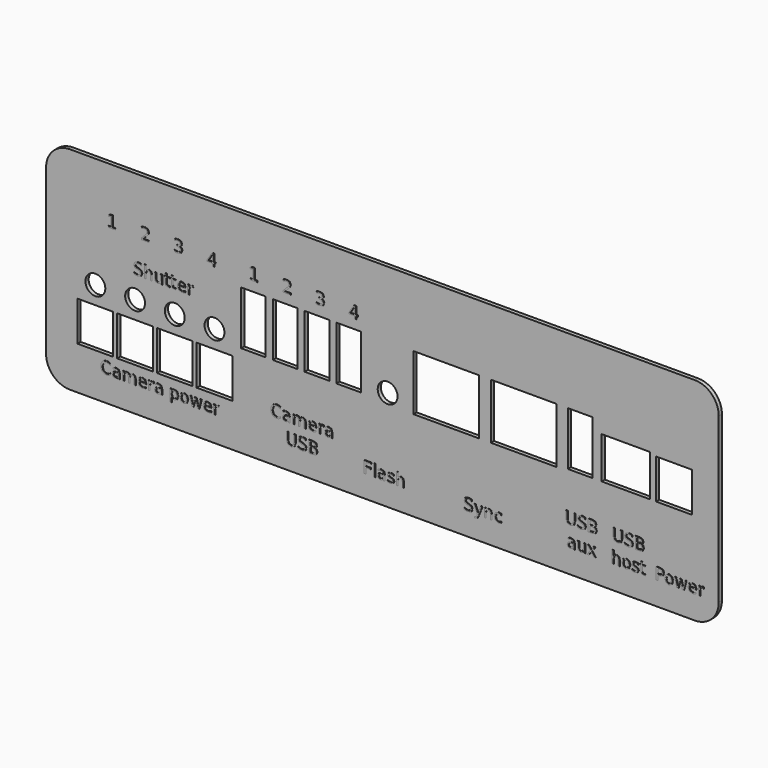
from build123d import *

# Parameters (mm, degrees)
F0_W     = 9
F0_H     = 10
F0_R     = 2.5
F0_W_2   = 6.2
F0_H_2   = 13.5
F0_W_3   = 16.5
F0_H_3   = 14
F0_W_4   = 12.2
F0_H_4   = 10.5
F1_DEPTH = 1
F2_W     = 0.366765
F2_H     = 3.102383
F3_DEPTH = 0.1


with BuildPart() as f1:
    # F0 (on Front) → F1 (new body)
    with BuildSketch(Plane.XZ):
        with BuildLine():
            ThreePointArc((-114.51425, -17.4525), (-112.756891, -21.695141), (-108.51425, -23.4525))
            Line((-108.51425, -23.4525), (48.88575, -23.4525))
            ThreePointArc((48.88575, -23.4525), (53.128391, -21.695141), (54.88575, -17.4525))
            Line((54.88575, -17.4525), (54.88575, 23.8475))
            ThreePointArc((54.88575, 23.8475), (53.128391, 28.090141), (48.88575, 29.8475))
            Line((48.88575, 29.8475), (-108.51425, 29.8475))
            ThreePointArc((-108.51425, 29.8475), (-112.756891, 28.090141), (-114.51425, 23.8475))
            Line((-114.51425, 23.8475), (-114.51425, -17.4525))
        make_face()
        with Locations((-102.1, -7.637372)):
            Rectangle(F0_W, F0_H, mode=Mode.SUBTRACT)
        with Locations((-92.1, -7.637372)):
            Rectangle(F0_W, F0_H, mode=Mode.SUBTRACT)
        with Locations((-82.1, -7.637372)):
            Rectangle(F0_W, F0_H, mode=Mode.SUBTRACT)
        with Locations((-102.1, 1.862628)):
            Circle(F0_R, mode=Mode.SUBTRACT)
        with Locations((-92.1, 1.862628)):
            Circle(F0_R, mode=Mode.SUBTRACT)
        with Locations((-82.1, 1.862628)):
            Circle(F0_R, mode=Mode.SUBTRACT)
        with Locations((-72.1, -7.637372)):
            Rectangle(F0_W, F0_H, mode=Mode.SUBTRACT)
        with Locations((-72.1, 1.862628)):
            Circle(F0_R, mode=Mode.SUBTRACT)
        with Locations((-28.5, 1.862628)):
            Circle(F0_R, mode=Mode.SUBTRACT)
        with Locations((-62.3, 6.5)):
            Rectangle(F0_W_2, F0_H_2, mode=Mode.SUBTRACT)
        with Locations((-54.3, 6.5)):
            Rectangle(F0_W_2, F0_H_2, mode=Mode.SUBTRACT)
        with Locations((-46.3, 6.5)):
            Rectangle(F0_W_2, F0_H_2, mode=Mode.SUBTRACT)
        with Locations((-38.3, 6.5)):
            Rectangle(F0_W_2, F0_H_2, mode=Mode.SUBTRACT)
        with Locations((-13.75, 6.25)):
            Rectangle(F0_W_3, F0_H_3, mode=Mode.SUBTRACT)
        with Locations((5.75, 6.25)):
            Rectangle(F0_W_3, F0_H_3, mode=Mode.SUBTRACT)
        with Locations((20, 6.5)):
            Rectangle(F0_W_2, F0_H_2, mode=Mode.SUBTRACT)
        with Locations((31.5, 5)):
            Rectangle(F0_W_4, F0_H_4, mode=Mode.SUBTRACT)
        with Locations((43.6, 4.75)):
            Rectangle(F0_W, F0_H, mode=Mode.SUBTRACT)
    extrude(amount=F1_DEPTH)


with BuildPart() as f3:
    # F2 (on face) → F3 (new body)
    with BuildSketch(Plane.XZ.offset(1)):
        Polygon((-62.330988, 16.072358), (-62.988813, 16.072358), (-62.988813, 15.733523), (-61.274303, 15.733523), (-61.274303, 16.072358), (-61.932373, 16.072358), (-61.932373, 18.711008), (-62.334908, 18.711008), (-63.047368, 18.567438), (-63.047368, 18.200673), (-62.330988, 18.343998), align=None)
        Polygon((-52.845813, 16.045898), (-54.250398, 16.045898), (-53.497268, 16.818138), (-53.180728, 17.152808), (-52.930828, 17.539908), (-52.861493, 17.888298), (-53.136873, 18.506188), (-53.874568, 18.737468), (-54.261423, 18.688223), (-54.716143, 18.540978), (-54.716143, 18.134033), (-54.266568, 18.333218), (-53.866728, 18.398633), (-53.433078, 18.249673), (-53.265743, 17.862818), (-53.343898, 17.564898), (-53.612418, 17.198133), (-54.110993, 16.682653), (-54.735743, 16.045898), (-54.735743, 15.706818), (-52.845813, 15.706818), align=None)
        Polygon((-44.603278, 17.083718), (-45.053833, 17.340478), (-44.651298, 17.575923), (-44.510178, 17.994383), (-44.777473, 18.556658), (-45.502918, 18.766868), (-45.882178, 18.734773), (-46.310193, 18.639223), (-46.310193, 18.280298), (-45.893938, 18.391773), (-45.539178, 18.428033), (-45.073923, 18.304063), (-44.910263, 17.953223), (-45.068533, 17.610223), (-45.523008, 17.492133), (-45.885853, 17.492133), (-45.885853, 17.161138), (-45.539178, 17.161138), (-45.025903, 17.011933), (-44.841173, 16.601313), (-45.040603, 16.166683), (-45.615863, 16.016498), (-46.033588, 16.067213), (-46.400353, 16.214703), (-46.400353, 15.825153), (-45.990958, 15.716128), (-45.604103, 15.677663), (-44.742928, 15.919478), (-44.439618, 16.601313), align=None)
        Polygon((-36.390143, 18.573808), (-36.896313, 18.573808), (-38.135278, 16.687798), (-38.135278, 16.298493), (-36.791453, 16.298493), (-36.791453, 15.596568), (-36.390143, 15.596568), (-36.390143, 16.298493), (-35.966048, 16.298493), (-35.966048, 16.633408), (-36.390143, 16.633408), align=None)
        Polygon((-37.808203, 16.633408), (-36.791453, 18.222968), (-36.791453, 16.633408), align=None, mode=Mode.SUBTRACT)
        Polygon((-98.262154, -14.758614), (-98.262154, -14.334592), (-98.706111, -14.123255), (-99.209882, -14.051495), (-99.814672, -14.155129), (-100.273249, -14.466181), (-100.565676, -14.954001), (-100.662708, -15.596016), (-100.565676, -16.236694), (-100.273249, -16.727174), (-99.814672, -17.03555), (-99.209882, -17.139227), (-98.7101, -17.067452), (-98.262154, -16.852116), (-98.262154, -16.432088), (-98.696808, -16.71521), (-99.185956, -16.808254), (-99.96753, -16.497222), (-100.237361, -15.596016), (-99.96753, -14.694815), (-99.185956, -14.382441), (-98.696808, -14.475467), align=None)
        Polygon((-95.905445, -17.082073), (-95.905445, -15.807358), (-96.144737, -15.045729), (-96.86783, -14.794506), (-97.237339, -14.834368), (-97.628114, -14.950008), (-97.628114, -15.288965), (-97.278547, -15.152059), (-96.906343, -15.105534), (-96.43979, -15.24511), (-96.272332, -15.635892), (-96.272332, -15.671777), (-96.786734, -15.671777), (-97.540404, -15.863184), (-97.791602, -16.432088), (-97.589575, -16.947821), (-97.043274, -17.139227), (-96.584683, -17.043523), (-96.272332, -16.743123), (-96.272332, -17.082073), align=None)
        Polygon((-97.253288, -16.061239), (-96.636549, -15.958888), (-96.272332, -15.958888), (-96.272332, -16.041299), (-96.457087, -16.616848), (-96.946229, -16.832181), (-97.297143, -16.719197), (-97.424739, -16.408164), align=None, mode=Mode.SUBTRACT)
        Polygon((-93.080889, -14.912792), (-93.409213, -15.277009), (-93.663083, -14.918108), (-94.075124, -14.794506), (-94.491182, -14.892874), (-94.792925, -15.195914), (-94.792925, -14.848994), (-95.161086, -14.848994), (-95.161086, -17.082073), (-94.792925, -17.082073), (-94.792925, -15.819324), (-94.626766, -15.304914), (-94.181478, -15.113521), (-93.829241, -15.269022), (-93.716248, -15.746213), (-93.716248, -17.082073), (-93.346739, -17.082073), (-93.346739, -15.819324), (-93.181902, -15.303592), (-92.731298, -15.113521), (-92.384403, -15.269022), (-92.271384, -15.746213), (-92.271384, -17.082073), (-91.901876, -17.082073), (-91.901876, -15.734252), (-92.091971, -15.040413), (-92.628962, -14.794506), align=None)
        Polygon((-89.258105, -16.053265), (-89.258105, -15.873819), (-89.52126, -15.085591), (-90.232421, -14.794506), (-91.032566, -15.11749), (-91.327669, -15.986803), (-91.016617, -16.828192), (-90.169946, -17.139227), (-89.74857, -17.095365), (-89.343169, -16.967759), (-89.343169, -16.620836), (-89.739236, -16.776353), (-90.147333, -16.828192), (-90.717545, -16.631469), (-90.944856, -16.053265), align=None)
        Polygon((-89.795096, -15.284971), (-89.624944, -15.766154), (-90.932876, -15.767482), (-90.721563, -15.279655), (-90.229726, -15.105534), align=None, mode=Mode.SUBTRACT)
        Polygon((-87.498221, -15.140103), (-87.362638, -15.191945), (-87.363961, -14.814449), (-87.466297, -14.801146), (-87.550038, -14.794506), (-88.000667, -14.894197), (-88.301061, -15.195914), (-88.301061, -14.848994), (-88.67057, -14.848994), (-88.67057, -17.082073), (-88.301061, -17.082073), (-88.301061, -15.905718), (-88.136225, -15.324857), (-87.656369, -15.121483), align=None)
        Polygon((-85.226581, -17.082073), (-85.226581, -15.807358), (-85.465824, -15.045729), (-86.190264, -14.794506), (-86.558475, -14.834368), (-86.94925, -14.950008), (-86.94925, -15.288965), (-86.601007, -15.152059), (-86.22748, -15.105534), (-85.760926, -15.24511), (-85.593444, -15.635892), (-85.593444, -15.671777), (-86.107871, -15.671777), (-86.861515, -15.863184), (-87.112738, -16.432088), (-86.912009, -16.947821), (-86.365733, -17.139227), (-85.907142, -17.043523), (-85.593444, -16.743123), (-85.593444, -17.082073), align=None)
        Polygon((-86.574424, -16.061239), (-85.959008, -15.958888), (-85.593444, -15.958888), (-85.593444, -16.041299), (-85.779546, -16.616848), (-86.267366, -16.832181), (-86.618279, -16.719197), (-86.745899, -16.408164), align=None, mode=Mode.SUBTRACT)
        Polygon((-82.814091, -17.931437), (-82.814091, -16.747109), (-82.522982, -17.043523), (-82.100283, -17.139227), (-81.440988, -16.816231), (-81.185796, -15.966863), (-81.440988, -15.11749), (-82.100283, -14.794506), (-82.522982, -14.892874), (-82.814091, -15.187952), (-82.814091, -14.848994), (-83.1836, -14.848994), (-83.1836, -17.931437), align=None)
        Polygon((-81.73342, -15.33282), (-81.565938, -15.966863), (-81.73342, -16.603557), (-82.190664, -16.832181), (-82.649254, -16.603557), (-82.814091, -15.966863), (-82.649254, -15.33282), (-82.190664, -15.10154), align=None, mode=Mode.SUBTRACT)
        Polygon((-78.959358, -15.105534), (-79.711705, -14.794506), (-80.465349, -15.105534), (-80.736515, -15.966863), (-80.465349, -16.828192), (-79.711705, -17.139227), (-78.959358, -16.828192), (-78.686894, -15.966863), align=None)
        Polygon((-80.178258, -15.336814), (-79.711705, -15.105534), (-79.247797, -15.339484), (-79.076346, -15.966863), (-79.247797, -16.596907), (-79.711705, -16.828192), (-80.179581, -16.59957), (-80.349734, -15.966863), align=None, mode=Mode.SUBTRACT)
        Polygon((-77.927908, -14.848994), (-78.293424, -14.848994), (-77.709908, -17.082073), (-77.276576, -17.082073), (-76.795421, -15.251749), (-76.31424, -17.082073), (-75.882183, -17.082073), (-75.297368, -14.848994), (-75.664378, -14.848994), (-76.120078, -16.591593), (-76.578767, -14.848994), (-77.012074, -14.848994), (-77.469318, -16.591593), align=None)
        Polygon((-72.828993, -16.053265), (-72.828993, -15.873819), (-73.092368, -15.085591), (-73.803358, -14.794506), (-74.603528, -15.11749), (-74.898753, -15.986803), (-74.587603, -16.828192), (-73.740883, -17.139227), (-73.319483, -17.095365), (-72.915478, -16.967759), (-72.915478, -16.620836), (-73.308948, -16.776353), (-73.718343, -16.828192), (-74.288458, -16.631469), (-74.515818, -16.053265), align=None)
        Polygon((-73.364808, -15.284971), (-73.196003, -15.766154), (-74.503813, -15.767482), (-74.292623, -15.279655), (-73.799438, -15.105534), align=None, mode=Mode.SUBTRACT)
        Polygon((-71.067933, -15.140103), (-70.933673, -15.191945), (-70.934898, -14.814449), (-71.037308, -14.801146), (-71.119628, -14.794506), (-71.571653, -14.894197), (-71.872023, -15.195914), (-71.872023, -14.848994), (-72.240258, -14.848994), (-72.240258, -17.082073), (-71.872023, -17.082073), (-71.872023, -15.905718), (-71.705913, -15.324857), (-71.227428, -15.121483), align=None)
        Polygon((-90.438417, 9.884883), (-90.438417, 10.278353), (-90.883705, 10.391298), (-91.310372, 10.430008), (-92.07732, 10.202648), (-92.355125, 9.580593), (-92.153099, 9.047473), (-91.50179, 8.766948), (-91.255909, 8.719173), (-90.815913, 8.533218), (-90.680354, 8.190218), (-90.867755, 7.803363), (-91.399429, 7.667878), (-91.861989, 7.738193), (-92.343194, 7.945708), (-92.343194, 7.530923), (-91.850058, 7.388823), (-91.399429, 7.340803), (-90.550063, 7.564243), (-90.258979, 8.220843), (-90.47431, 8.799043), (-91.138921, 9.102108), (-91.382181, 9.151108), (-91.832761, 9.313298), (-91.949724, 9.612443), (-91.772957, 9.975288), (-91.263871, 10.102933), (-90.871749, 10.048543), align=None)
        Polygon((-87.790653, 7.399358), (-87.790653, 8.747103), (-87.988686, 9.446333), (-88.57088, 9.685698), (-88.982945, 9.585983), (-89.292625, 9.285368), (-89.292625, 10.501793), (-89.660836, 10.501793), (-89.660836, 7.399358), (-89.292625, 7.399358), (-89.292625, 8.660618), (-89.121175, 9.177813), (-88.65195, 9.366463), (-88.281118, 9.209663), (-88.157492, 8.735098), (-88.157492, 7.399358), align=None)
        Polygon((-87.092795, 9.632288), (-87.092795, 8.280623), (-86.893438, 7.580168), (-86.309897, 7.340803), (-85.900502, 7.439293), (-85.58945, 7.742358), (-85.58945, 7.399358), (-85.222612, 7.399358), (-85.222612, 9.632288), (-85.58945, 9.632288), (-85.58945, 8.365638), (-85.763572, 7.849913), (-86.231449, 7.659793), (-86.602329, 7.818063), (-86.725957, 8.293853), (-86.725957, 9.632288), align=None)
        Polygon((-84.100733, 9.632288), (-84.100733, 10.266348), (-84.468967, 10.266348), (-84.468967, 9.632288), (-84.738762, 9.632288), (-84.738762, 9.346618), (-84.468967, 9.346618), (-84.468967, 8.134358), (-84.3081, 7.556158), (-83.721914, 7.399358), (-83.344442, 7.399358), (-83.344442, 7.706343), (-83.721914, 7.706343), (-84.026326, 7.783518), (-84.100733, 8.134358), (-84.100733, 9.346618), (-83.344442, 9.346618), (-83.344442, 9.632288), align=None)
        Polygon((-82.497722, 9.632288), (-82.497722, 10.266348), (-82.865908, 10.266348), (-82.865908, 9.632288), (-83.135751, 9.632288), (-83.135751, 9.346618), (-82.865908, 9.346618), (-82.865908, 8.134358), (-82.70509, 7.556158), (-82.118903, 7.399358), (-81.741383, 7.399358), (-81.741383, 7.706343), (-82.118903, 7.706343), (-82.423266, 7.783518), (-82.497722, 8.134358), (-82.497722, 9.346618), (-81.741383, 9.346618), (-81.741383, 9.632288), align=None)
        Polygon((-79.347512, 8.428113), (-79.347512, 8.607698), (-79.610666, 9.394393), (-80.321828, 9.685698), (-81.121974, 9.362543), (-81.417076, 8.493283), (-81.106024, 7.651953), (-80.25803, 7.340803), (-79.837977, 7.384658), (-79.432576, 7.512303), (-79.432576, 7.859223), (-79.82732, 7.703648), (-80.23674, 7.651953), (-80.806952, 7.849913), (-81.034263, 8.428113), align=None)
        Polygon((-79.88318, 9.195208), (-79.71435, 8.715253), (-81.022283, 8.712558), (-80.810971, 9.201823), (-80.31781, 9.374548), align=None, mode=Mode.SUBTRACT)
        Polygon((-77.586305, 9.341228), (-77.450722, 9.289533), (-77.453393, 9.665608), (-77.554381, 9.680308), (-77.638122, 9.685698), (-78.088751, 9.585983), (-78.390468, 9.285368), (-78.390468, 9.632288), (-78.758655, 9.632288), (-78.758655, 7.399358), (-78.390468, 7.399358), (-78.390468, 8.575603), (-78.224309, 9.155273), (-77.745775, 9.358623), align=None)
        Polygon((-55.424438, -10.446662), (-55.424438, -10.021318), (-55.869603, -9.809957), (-56.372098, -9.738196), (-56.976758, -9.84188), (-57.436868, -10.152883), (-57.729153, -10.64205), (-57.824703, -11.284048), (-57.729153, -11.9234), (-57.436868, -12.41389), (-56.976758, -12.723595), (-56.372098, -12.827279), (-55.873523, -12.755494), (-55.424438, -12.540138), (-55.424438, -12.118812), (-55.859068, -12.401934), (-56.348333, -12.496283), (-57.129638, -12.185281), (-57.400853, -11.284048), (-57.129638, -10.38284), (-56.348333, -10.069142), (-55.859068, -10.163541), align=None)
        Polygon((-53.067783, -12.768773), (-53.067783, -11.495385), (-53.306903, -10.733778), (-54.031368, -10.482555), (-54.399603, -10.522441), (-54.790133, -10.638057), (-54.790133, -10.977014), (-54.441988, -10.838761), (-54.068363, -10.793558), (-53.601883, -10.933159), (-53.434548, -11.323934), (-53.434548, -11.359826), (-53.949048, -11.359826), (-54.702668, -11.55122), (-54.953793, -12.118812), (-54.753138, -12.63586), (-54.207033, -12.827279), (-53.748148, -12.731557), (-53.434548, -12.429815), (-53.434548, -12.768773), align=None)
        Polygon((-54.415528, -11.747956), (-53.800088, -11.646917), (-53.434548, -11.646917), (-53.434548, -11.728012), (-53.620748, -12.304865), (-54.108298, -12.520244), (-54.459383, -12.405903), (-54.587028, -12.0949), align=None, mode=Mode.SUBTRACT)
        Polygon((-50.243178, -10.599518), (-50.571478, -10.965033), (-50.825298, -10.606182), (-51.237388, -10.482555), (-51.654868, -10.579575), (-51.954993, -10.88264), (-51.954993, -10.535696), (-52.324453, -10.535696), (-52.324453, -12.768773), (-51.954993, -12.768773), (-51.954993, -11.507365), (-51.790353, -10.992964), (-51.343473, -10.80157), (-50.992633, -10.957071), (-50.878463, -11.43291), (-50.878463, -12.768773), (-50.510228, -12.768773), (-50.510228, -11.507365), (-50.344118, -10.990318), (-49.893563, -10.80157), (-49.546643, -10.957071), (-49.433453, -11.43291), (-49.433453, -12.768773), (-49.063993, -12.768773), (-49.063993, -11.420978), (-49.254113, -10.727114), (-49.792623, -10.482555), align=None)
        Polygon((-46.420443, -11.739993), (-46.420443, -11.560506), (-46.683328, -10.773615), (-47.396033, -10.482555), (-48.194978, -10.805539), (-48.489958, -11.674848), (-48.179053, -12.516227), (-47.332088, -12.827279), (-46.910688, -12.783399), (-46.506928, -12.655803), (-46.506928, -12.308883), (-46.901623, -12.464409), (-47.309548, -12.516227), (-47.879908, -12.318193), (-48.107023, -11.739993), align=None)
        Polygon((-46.957238, -10.97302), (-46.787208, -11.452853), (-48.095263, -11.455499), (-47.883828, -10.966356), (-47.391868, -10.793558), align=None, mode=Mode.SUBTRACT)
        Polygon((-44.660363, -10.826804), (-44.524633, -10.878646), (-44.526103, -10.502498), (-44.628513, -10.487871), (-44.712303, -10.482555), (-45.162613, -10.582221), (-45.463228, -10.88264), (-45.463228, -10.535696), (-45.832688, -10.535696), (-45.832688, -12.768773), (-45.463228, -12.768773), (-45.463228, -11.592429), (-45.298588, -11.012906), (-44.820103, -10.809532), align=None)
        Polygon((-42.388723, -12.768773), (-42.388723, -11.495385), (-42.628088, -10.733778), (-43.352553, -10.482555), (-43.720543, -10.522441), (-44.111563, -10.638057), (-44.111563, -10.977014), (-43.763173, -10.838761), (-43.389548, -10.793558), (-42.923068, -10.933159), (-42.755488, -11.323934), (-42.755488, -11.359826), (-43.269988, -11.359826), (-44.023853, -11.55122), (-44.274978, -12.118812), (-44.074078, -12.63586), (-43.527973, -12.827279), (-43.069333, -12.731557), (-42.755488, -12.429815), (-42.755488, -12.768773), align=None)
        Polygon((-43.736713, -11.747956), (-43.121028, -11.646917), (-42.755488, -11.646917), (-42.755488, -11.728012), (-42.941688, -12.304865), (-43.429728, -12.520244), (-43.780568, -12.405903), (-43.908213, -12.0949), align=None, mode=Mode.SUBTRACT)
        Polygon((-53.466398, -14.896843), (-53.871873, -14.896843), (-53.871873, -16.755087), (-53.584488, -17.633693), (-52.731643, -17.931437), (-51.882228, -17.633693), (-51.592148, -16.755087), (-51.592148, -14.896843), (-51.997623, -14.896843), (-51.997623, -16.704575), (-52.170348, -17.394434), (-52.731643, -17.60445), (-53.293673, -17.394434), (-53.466398, -16.704575), align=None)
        Polygon((-49.050763, -15.387333), (-49.050763, -14.993887), (-49.494703, -14.880893), (-49.921493, -14.842355), (-50.689813, -15.069641), (-50.966173, -15.691718), (-50.765518, -16.22473), (-50.112838, -16.505194), (-49.868328, -16.553047), (-49.427083, -16.739135), (-49.291353, -17.082073), (-49.478778, -17.46887), (-50.011653, -17.60445), (-50.474458, -17.534003), (-50.954168, -17.326647), (-50.954168, -17.74136), (-50.462453, -17.883585), (-50.011653, -17.931437), (-49.162238, -17.70813), (-48.871423, -17.0515), (-49.086778, -16.473293), (-49.749993, -16.170235), (-49.993278, -16.121054), (-50.443833, -15.958888), (-50.562168, -15.659817), (-50.384053, -15.296952), (-49.876168, -15.169331), (-49.482943, -15.223844), align=None)
        Polygon((-47.213998, -14.896843), (-48.242508, -14.896843), (-48.242508, -17.872952), (-47.174063, -17.872952), (-46.403048, -17.65629), (-46.131833, -17.039539), (-46.296473, -16.535768), (-46.758053, -16.268595), (-46.382958, -16.066556), (-46.255313, -15.631904), (-46.503988, -15.088261), align=None)
        Polygon((-47.839973, -17.541978), (-47.839973, -16.452024), (-47.193908, -16.452024), (-46.713953, -16.584946), (-46.555928, -16.995674), (-46.713953, -17.409055), (-47.193908, -17.541978), align=None, mode=Mode.SUBTRACT)
        Polygon((-47.839973, -16.125042), (-47.839973, -15.227813), (-47.244623, -15.227813), (-46.805828, -15.339484), (-46.659563, -15.675766), (-46.805828, -16.014716), (-47.244623, -16.125042), align=None, mode=Mode.SUBTRACT)
        Polygon((-98.054806, 16.089753), (-98.712755, 16.089753), (-98.712755, 15.750673), (-96.998096, 15.750673), (-96.998096, 16.089753), (-97.656044, 16.089753), (-97.656044, 18.728158), (-98.058799, 18.728158), (-98.769914, 18.584833), (-98.769914, 18.217578), (-98.054806, 18.361148), align=None)
        Polygon((-88.569533, 16.063048), (-89.974509, 16.063048), (-89.220865, 16.835533), (-88.904521, 17.170203), (-88.654621, 17.557058), (-88.585507, 17.905203), (-88.860641, 18.523583), (-89.598361, 18.754863), (-89.985167, 18.705618), (-90.43974, 18.557883), (-90.43974, 18.151183), (-89.990483, 18.350613), (-89.590374, 18.415783), (-89.157067, 18.267068), (-88.989585, 17.879968), (-89.06801, 17.582293), (-89.336505, 17.215528), (-89.834957, 16.699558), (-90.459683, 16.063048), (-90.459683, 15.724213), (-88.569533, 15.724213), align=None)
        Polygon((-80.32712, 17.101113), (-80.777724, 17.357873), (-80.374968, 17.592828), (-80.234069, 18.013248), (-80.501242, 18.575278), (-81.227005, 18.783773), (-81.605824, 18.752168), (-82.033814, 18.656373), (-82.033814, 18.297693), (-81.61778, 18.409168), (-81.262897, 18.444938), (-80.797667, 18.321458), (-80.634154, 17.970618), (-80.79235, 17.627618), (-81.246923, 17.509283), (-81.609817, 17.509283), (-81.609817, 17.178533), (-81.262897, 17.178533), (-80.749819, 17.029328), (-80.565039, 16.618708), (-80.764421, 16.184078), (-81.339975, 16.033893), (-81.757357, 16.084363), (-82.124195, 16.231853), (-82.124195, 15.843773), (-81.714825, 15.733523), (-81.328019, 15.694813), (-80.466672, 15.936873), (-80.163631, 16.618708), align=None)
        Polygon((-72.113838, 18.591203), (-72.620253, 18.591203), (-73.859218, 16.705193), (-73.859218, 16.315888), (-72.515393, 16.315888), (-72.515393, 15.613718), (-72.113838, 15.613718), (-72.113838, 16.315888), (-71.689988, 16.315888), (-71.689988, 16.650558), (-72.113838, 16.650558), align=None)
        Polygon((-73.532143, 16.650558), (-72.515393, 18.240363), (-72.515393, 16.650558), align=None, mode=Mode.SUBTRACT)
        Polygon((16.876845, -9.475934), (16.472595, -9.475934), (16.472595, -11.334186), (16.759735, -12.21278), (17.61307, -12.510529), (18.462485, -12.21278), (18.751095, -11.334186), (18.751095, -9.475934), (18.346845, -9.475934), (18.346845, -11.283642), (18.17265, -11.973537), (17.61307, -12.183552), (17.05055, -11.973537), (16.876845, -11.283642), align=None)
        Polygon((21.29346, -9.9664), (21.29346, -9.572978), (20.84854, -9.460009), (20.42175, -9.421446), (19.654655, -9.648708), (19.376825, -10.270812), (19.57895, -10.803834), (20.23016, -11.084286), (20.47614, -11.132134), (20.91616, -11.318212), (21.051645, -11.661163), (20.86422, -12.047944), (20.33257, -12.183552), (19.870255, -12.113065), (19.389075, -11.905746), (19.389075, -12.320433), (19.882015, -12.46268), (20.33257, -12.510529), (21.181985, -12.287186), (21.47329, -11.630586), (21.257935, -11.052362), (20.59325, -10.749321), (20.349965, -10.70015), (19.89941, -10.53796), (19.7823, -10.238888), (19.958945, -9.876019), (20.468055, -9.748423), (20.8603, -9.802936), align=None)
        Polygon((23.129245, -9.475934), (22.100245, -9.475934), (22.100245, -12.452023), (23.16918, -12.452023), (23.941175, -12.235369), (24.21239, -11.618631), (24.046525, -11.114837), (23.586415, -10.847689), (23.961265, -10.645637), (24.08891, -10.210983), (23.839255, -9.667328), align=None)
        Polygon((22.50327, -12.121077), (22.50327, -11.031096), (23.14909, -11.031096), (23.63027, -11.164033), (23.78707, -11.574751), (23.63027, -11.988115), (23.14909, -12.121077), align=None, mode=Mode.SUBTRACT)
        Polygon((22.50327, -10.704119), (22.50327, -9.806904), (23.10009, -9.806904), (23.53864, -9.918551), (23.68368, -10.254863), (23.53864, -10.593795), (23.10009, -10.704119), align=None, mode=Mode.SUBTRACT)
        Polygon((18.682985, -17.556202), (18.682985, -16.28282), (18.44362, -15.521182), (17.720625, -15.269959), (17.351165, -15.309835), (16.96039, -15.42548), (16.96039, -15.764427), (17.310005, -15.626189), (17.68216, -15.580996), (18.14864, -15.72056), (18.31622, -16.11135), (18.31622, -16.14724), (17.80172, -16.14724), (17.048345, -16.338646), (16.79673, -16.906218), (16.998855, -17.423281), (17.54545, -17.614687), (18.003845, -17.518984), (18.31622, -17.217253), (18.31622, -17.556202), align=None)
        Polygon((17.334995, -16.535366), (17.951905, -16.434348), (18.31622, -16.434348), (18.31622, -16.515431), (18.131245, -17.092305), (17.64247, -17.307638), (17.29114, -17.193329), (17.163495, -16.882294), align=None, mode=Mode.SUBTRACT)
        Polygon((19.403285, -15.323126), (19.403285, -16.674936), (19.602715, -17.375429), (20.186305, -17.614687), (20.5957, -17.516325), (20.906605, -17.213264), (20.906605, -17.556202), (21.27386, -17.556202), (21.27386, -15.323126), (20.906605, -15.323126), (20.906605, -16.589867), (20.732655, -17.105602), (20.26495, -17.295677), (19.89402, -17.137503), (19.77054, -16.661644), (19.77054, -15.323126), align=None)
        Polygon((23.08147, -16.410424), (23.88948, -15.323126), (23.45632, -15.323126), (22.864645, -16.119327), (22.271745, -15.323126), (21.840055, -15.323126), (22.63361, -16.387825), (21.765575, -17.556202), (22.198735, -17.556202), (22.84872, -16.678924), (23.49895, -17.556202), (23.93064, -17.556202), align=None)
        Polygon((28.73852, -9.475934), (28.33329, -9.475934), (28.33329, -11.334186), (28.620185, -12.21278), (29.47352, -12.510529), (30.322935, -12.21278), (30.61277, -11.334186), (30.61277, -9.475934), (30.20705, -9.475934), (30.20705, -11.283642), (30.03457, -11.973537), (29.47352, -12.183552), (28.911245, -11.973537), (28.73852, -11.283642), align=None)
        Polygon((33.154155, -9.9664), (33.154155, -9.572978), (32.710215, -9.460009), (32.283425, -9.421446), (31.515105, -9.648708), (31.238745, -10.270812), (31.439645, -10.803834), (32.092325, -11.084286), (32.33659, -11.132134), (32.777835, -11.318212), (32.91381, -11.661163), (32.72614, -12.047944), (32.19302, -12.183552), (31.73046, -12.113065), (31.25075, -11.905746), (31.25075, -12.320433), (31.742465, -12.46268), (32.19302, -12.510529), (33.04268, -12.287186), (33.333495, -11.630586), (33.11814, -11.052362), (32.454925, -10.749321), (32.21164, -10.70015), (31.761085, -10.53796), (31.64275, -10.238888), (31.82111, -9.876019), (32.32875, -9.748423), (32.72222, -9.802936), align=None)
        Polygon((34.991165, -9.475934), (33.96241, -9.475934), (33.96241, -12.452023), (35.030855, -12.452023), (35.80187, -12.235369), (36.073085, -11.618631), (35.9082, -11.114837), (35.44711, -10.847689), (35.821715, -10.645637), (35.94936, -10.210983), (35.70093, -9.667328), align=None)
        Polygon((34.364945, -12.121077), (34.364945, -11.031096), (35.011255, -11.031096), (35.490965, -11.164033), (35.649235, -11.574751), (35.490965, -11.988115), (35.011255, -12.121077), align=None, mode=Mode.SUBTRACT)
        Polygon((34.364945, -10.704119), (34.364945, -9.806904), (34.96054, -9.806904), (35.39909, -9.918551), (35.545355, -10.254863), (35.39909, -10.593795), (34.96054, -10.704119), align=None, mode=Mode.SUBTRACT)
        Polygon((30.000025, -17.556202), (30.000025, -16.208385), (29.80329, -15.509218), (29.220925, -15.269959), (28.80761, -15.369649), (28.4994, -15.670053), (28.4994, -14.453819), (28.129695, -14.453819), (28.129695, -17.556202), (28.4994, -17.556202), (28.4994, -16.294779), (28.670655, -15.777719), (29.138605, -15.588968), (29.509535, -15.745817), (29.633015, -16.220345), (29.633015, -17.556202), align=None)
        Polygon((32.352515, -15.580996), (31.60159, -15.269959), (30.84797, -15.580996), (30.576755, -16.442325), (30.84797, -17.303652), (31.60159, -17.614687), (32.352515, -17.303652), (32.626425, -16.442325), align=None)
        Polygon((31.13511, -15.812276), (31.60159, -15.580996), (32.065375, -15.813606), (32.236875, -16.442325), (32.065375, -17.07237), (31.60159, -17.303652), (31.132415, -17.0737), (30.96361, -16.442325), align=None, mode=Mode.SUBTRACT)
        Polygon((34.65625, -15.736515), (34.65625, -15.38959), (34.325255, -15.299202), (33.94232, -15.269959), (33.308505, -15.441429), (33.08531, -15.927921), (33.23672, -16.335988), (33.728435, -16.555307), (33.855835, -16.585878), (34.297325, -16.738736), (34.398265, -16.968691), (34.25886, -17.219911), (33.86, -17.307638), (33.46898, -17.255799), (33.06914, -17.096294), (33.06914, -17.47512), (33.47731, -17.578798), (33.851915, -17.614687), (34.528605, -17.432585), (34.77581, -16.940778), (34.6097, -16.515431), (34.055265, -16.278832), (33.93056, -16.250919), (33.53709, -16.11268), (33.439825, -15.911966), (33.575555, -15.660748), (33.986175, -15.577007), (34.333095, -15.616886), align=None)
        Polygon((35.724695, -15.323126), (35.724695, -14.689093), (35.355235, -14.689093), (35.355235, -15.323126), (35.086715, -15.323126), (35.086715, -15.608909), (35.355235, -15.608909), (35.355235, -16.821149), (35.517425, -17.399355), (36.10371, -17.556202), (36.479785, -17.556202), (36.479785, -17.249154), (36.10371, -17.249154), (35.79795, -17.17206), (35.724695, -16.821149), (35.724695, -15.608909), (36.479785, -15.608909), (36.479785, -15.323126), align=None)
        Polygon((40.135185, -14.580093), (39.225745, -14.580093), (39.225745, -17.556202), (39.62877, -17.556202), (39.62877, -16.359912), (40.135185, -16.359912), (40.8915, -16.135274), (41.148015, -15.469342), (40.8915, -14.807403), align=None)
        Polygon((39.62877, -16.028939), (39.62877, -14.911063), (40.135185, -14.911063), (40.57006, -15.055956), (40.724165, -15.469342), (40.57006, -15.884054), (40.135185, -16.028939), align=None, mode=Mode.SUBTRACT)
        Polygon((43.148685, -15.580996), (42.39629, -15.269959), (41.642425, -15.580996), (41.37121, -16.442325), (41.642425, -17.303652), (42.39629, -17.614687), (43.148685, -17.303652), (43.421125, -16.442325), align=None)
        Polygon((41.92981, -15.812276), (42.39629, -15.580996), (42.8613, -15.813606), (43.0328, -16.442325), (42.8613, -17.07237), (42.39629, -17.303652), (41.92834, -17.0737), (41.75831, -16.442325), align=None, mode=Mode.SUBTRACT)
        Polygon((44.18136, -15.323126), (43.814595, -15.323126), (44.398185, -17.556202), (44.831345, -17.556202), (45.31375, -15.725879), (45.79346, -17.556202), (46.22711, -17.556202), (46.81021, -15.323126), (46.443445, -15.323126), (45.9875, -17.065723), (45.529105, -15.323126), (45.0957, -15.323126), (44.64, -17.065723), align=None)
        Polygon((49.278585, -16.527394), (49.278585, -16.347949), (49.0157, -15.561055), (48.304465, -15.269959), (47.50454, -15.592957), (47.20907, -16.462261), (47.52022, -17.303652), (48.36841, -17.614687), (48.78834, -17.570823), (49.19357, -17.443219), (49.19357, -17.096294), (48.798875, -17.251813), (48.38948, -17.303652), (47.81912, -17.105602), (47.592005, -16.527394), align=None)
        Polygon((48.743015, -15.760439), (48.91182, -16.240284), (47.603765, -16.242942), (47.815445, -15.753792), (48.30863, -15.580996), align=None, mode=Mode.SUBTRACT)
        Polygon((51.03989, -15.614225), (51.17562, -15.666065), (51.172925, -15.289899), (51.071985, -15.275278), (50.988195, -15.269959), (50.53764, -15.369649), (50.2358, -15.670053), (50.2358, -15.323126), (49.86781, -15.323126), (49.86781, -17.556202), (50.2358, -17.556202), (50.2358, -16.37985), (50.40191, -15.800315), (50.880395, -15.596945), align=None)
        Polygon((-32.609793, -14.896843), (-34.320383, -14.896843), (-34.320383, -17.872952), (-33.917848, -17.872952), (-33.917848, -16.452024), (-32.737438, -16.452024), (-32.737438, -16.113076), (-33.917848, -16.113076), (-33.917848, -15.2358), (-32.609793, -15.2358), align=None)
        with Locations((-31.800435, -16.32176)):
            Rectangle(F2_W, F2_H)
        Polygon((-29.104578, -17.872952), (-29.104578, -16.59957), (-29.343943, -15.837932), (-30.068408, -15.586709), (-30.436643, -15.626585), (-30.827418, -15.74223), (-30.827418, -16.081177), (-30.479028, -15.942939), (-30.105403, -15.897746), (-29.638923, -16.03731), (-29.471588, -16.4281), (-29.471588, -16.46399), (-29.986088, -16.46399), (-30.739708, -16.655396), (-30.990833, -17.222968), (-30.790178, -17.740031), (-30.243828, -17.931437), (-29.785188, -17.835734), (-29.471588, -17.534003), (-29.471588, -17.872952), align=None)
        Polygon((-30.452568, -16.852116), (-29.836883, -16.751098), (-29.471588, -16.751098), (-29.471588, -16.832181), (-29.657543, -17.409055), (-30.145583, -17.624388), (-30.496423, -17.510079), (-30.624068, -17.199044), align=None, mode=Mode.SUBTRACT)
        Polygon((-26.923588, -16.053265), (-26.923588, -15.70634), (-27.254583, -15.615952), (-27.637518, -15.586709), (-28.271333, -15.758179), (-28.494528, -16.244671), (-28.343118, -16.652738), (-27.851158, -16.872057), (-27.723513, -16.902628), (-27.282513, -17.055486), (-27.181328, -17.285441), (-27.320978, -17.536661), (-27.719838, -17.624388), (-28.110368, -17.572549), (-28.510453, -17.413044), (-28.510453, -17.79187), (-28.102528, -17.895548), (-27.727678, -17.931437), (-27.050988, -17.749335), (-26.803783, -17.257528), (-26.970138, -16.832181), (-27.524083, -16.595582), (-27.649278, -16.567669), (-28.042748, -16.42943), (-28.139768, -16.228716), (-28.004283, -15.977498), (-27.593418, -15.893757), (-27.246498, -15.933636), align=None)
        Polygon((-24.362113, -17.872952), (-24.362113, -16.525135), (-24.558848, -15.825968), (-25.141213, -15.586709), (-25.554283, -15.686399), (-25.862738, -15.986803), (-25.862738, -14.770569), (-26.232443, -14.770569), (-26.232443, -17.872952), (-25.862738, -17.872952), (-25.862738, -16.611529), (-25.691238, -16.094469), (-25.223533, -15.905718), (-24.852603, -16.062567), (-24.729123, -16.537095), (-24.729123, -17.872952), align=None)
        Polygon((-7.245676, -15.291974), (-7.245676, -14.899851), (-7.691086, -14.785535), (-8.117876, -14.748344), (-8.884726, -14.975605), (-9.162556, -15.597685), (-8.960431, -16.129359), (-8.308976, -16.411161), (-8.062996, -16.459014), (-7.623466, -16.643776), (-7.487736, -16.98671), (-7.675161, -17.373511), (-8.206566, -17.509092), (-8.669371, -17.439972), (-9.150551, -17.232617), (-9.150551, -17.647331), (-8.657611, -17.788225), (-8.206566, -17.836076), (-7.357396, -17.612768), (-7.066336, -16.957467), (-7.281691, -16.379262), (-7.946376, -16.076195), (-8.189661, -16.0257), (-8.640216, -15.864858), (-8.757326, -15.565786), (-8.580191, -15.202917), (-8.071326, -15.075321), (-7.679326, -15.128461), align=None)
        Polygon((-5.828841, -18.505999), (-5.525531, -17.986278), (-4.544796, -15.545843), (-4.932876, -15.545843), (-5.630636, -17.292431), (-6.328641, -15.545843), (-6.717946, -15.545843), (-5.814141, -17.743032), (-5.880536, -17.910512), (-6.065266, -18.249462), (-6.300711, -18.321237), (-6.516066, -18.321237), (-6.516066, -18.628286), (-6.223536, -18.628286), align=None)
        Polygon((-2.181281, -17.778922), (-2.181281, -16.431101), (-2.379486, -15.730597), (-2.961606, -15.491355), (-3.373696, -15.591046), (-3.683376, -15.892763), (-3.683376, -15.545843), (-4.051611, -15.545843), (-4.051611, -17.778922), (-3.683376, -17.778922), (-3.683376, -16.516173), (-3.511876, -16.000441), (-3.042946, -15.81037), (-2.672016, -15.968542), (-2.548291, -16.443062), (-2.548291, -17.778922), align=None)
        Polygon((0.160429, -15.973858), (0.160429, -15.630907), (-0.151701, -15.527247), (-0.482696, -15.491355), (-1.306876, -15.805053), (-1.606021, -16.663712), (-1.308101, -17.519725), (-0.506461, -17.836076), (-0.158316, -17.800188), (0.160429, -17.692523), (0.160429, -17.353575), (-0.151701, -17.483837), (-0.466771, -17.525041), (-1.020961, -17.300406), (-1.219166, -16.663712), (-1.020961, -16.029669), (-0.466771, -15.802383), (-0.151701, -15.846237), align=None)
    extrude(amount=F3_DEPTH)


solid = Compound([f1.part, f3.part])
